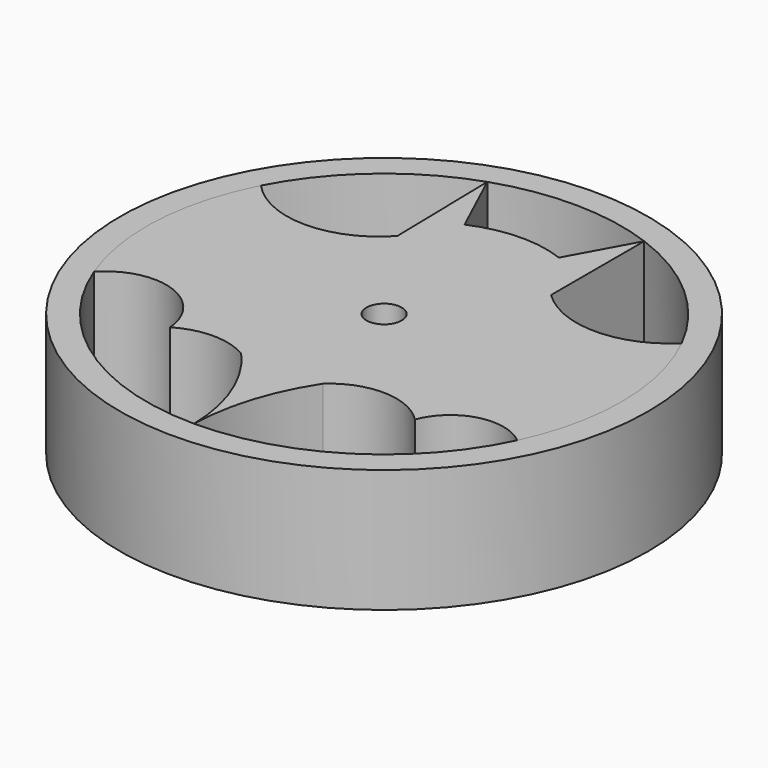
from build123d import *

# Parameters (mm, degrees)
F0_R     = 15
F1_DEPTH = 7
F2_DEPTH = 7
F3_R     = 1
F4_DEPTH = 7.001


with BuildPart() as f1:
    # F0 (on Top) → F1 (new body)
    with BuildSketch(Plane.XY):
        Circle(F0_R)
        with BuildLine():
            ThreePointArc((12.06655, 6.05379), (13.13675, 3.110593), (13.5, 0))
            ThreePointArc((13.5, 0), (13.170032, -2.966524), (12.196257, -5.788032))
            ThreePointArc((12.196257, -5.788032), (7.21497, -11.410268), (0, -13.5))
            ThreePointArc((0, -13.5), (-7.632164, -11.135532), (-12.590845, -4.870382))
            ThreePointArc((-12.590845, -4.870382), (-13.479509, 0.743526), (-11.978791, 6.225637))
            ThreePointArc((-11.978791, 6.225637), (-8.800548, 10.237204), (-4.357446, 12.777428))
            ThreePointArc((-4.357446, 12.777428), (0.151972, 13.499145), (4.643998, 12.676091))
            ThreePointArc((4.643998, 12.676091), (8.987454, 10.073514), (12.06655, 6.05379))
        make_face(mode=Mode.SUBTRACT)
    extrude(amount=F1_DEPTH)


with BuildPart() as f2:
    # F0 (on Top) → F2 (new body)
    with BuildSketch(Plane.XY):
        with BuildLine():
            ThreePointArc((12.196257, -5.788032), (13.170032, -2.966524), (13.5, 0))
            ThreePointArc((13.5, 0), (13.13675, 3.110593), (12.06655, 6.05379))
            ThreePointArc((12.06655, 6.05379), (8.355274, 4.542886), (4.643998, 6.05379))
            Line((4.643998, 6.05379), (4.643998, 12.676091))
            Line((4.643998, 12.676091), (2.673639, 9.077852))
            ThreePointArc((2.673639, 9.077852), (0.033808, 9.527702), (-2.578313, 8.937872))
            Line((-2.578313, 8.937872), (-4.357446, 12.777428))
            Line((-4.357446, 12.777428), (-4.223439, 6.225637))
            ThreePointArc((-4.223439, 6.225637), (-8.101115, 4.514355), (-11.978791, 6.225637))
            ThreePointArc((-11.978791, 6.225637), (-13.479509, 0.743526), (-12.590845, -4.870382))
            ThreePointArc((-12.590845, -4.870382), (-8.935145, -3.949587), (-6.619819, -6.924696))
            ThreePointArc((-6.619819, -6.924696), (-4.599066, -6.374414), (-2.578313, -6.924696))
            ThreePointArc((-2.578313, -6.924696), (-0.697832, -9.980478), (0, -13.5))
            ThreePointArc((0, -13.5), (0.573261, -10.068685), (2.062518, -6.924696))
            ThreePointArc((2.062518, -6.924696), (4.761095, -5.906272), (7.405134, -7.058906))
            ThreePointArc((7.405134, -7.058906), (9.470995, -5.180517), (12.196257, -5.788032))
        make_face()
    extrude(amount=F2_DEPTH)

    # F3 (on Top) → F4 (cut, through all)
    with BuildSketch(Plane.XY):
        Circle(F3_R)
    extrude(amount=F4_DEPTH, mode=Mode.SUBTRACT)


solid = Compound([f1.part, f2.part])
